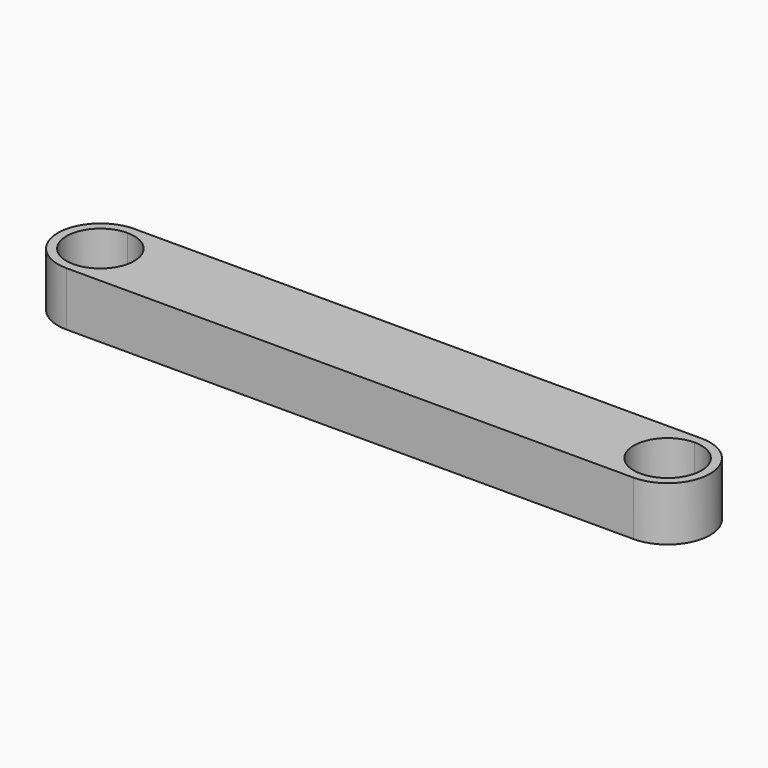
from build123d import *

# Parameters (mm, degrees)
F1_DEPTH = 5.08


with BuildPart() as f1:
    # F0 (on Top) → F1 (new body)
    with BuildSketch(Plane.XY):
        with BuildLine():
            Line((0, 3.990317), (-26.64101, 3.990317))
            Line((-26.64101, 3.990317), (-26.64101, 3.175))
            ThreePointArc((-26.64101, 3.175), (-24.395946, 2.245064), (-23.46601, 0))
            ThreePointArc((-23.46601, 0), (-24.395946, -2.245064), (-26.64101, -3.175))
            Line((-26.64101, -3.175), (-26.64101, -3.990317))
            Line((-26.64101, -3.990317), (0, -3.990317))
            Line((0, -3.990317), (26.64101, -3.990317))
            Line((26.64101, -3.990317), (26.64101, -3.175))
            ThreePointArc((26.64101, -3.175), (23.46601, 0), (26.64101, 3.175))
            Line((26.64101, 3.175), (26.64101, 3.990317))
            Line((26.64101, 3.990317), (0, 3.990317))
        make_face()
        with BuildLine():
            Line((-26.64101, 3.175), (-26.64101, 3.990317))
            ThreePointArc((-26.64101, 3.990317), (-30.631327, 0), (-26.64101, -3.990317))
            Line((-26.64101, -3.990317), (-26.64101, -3.175))
            ThreePointArc((-26.64101, -3.175), (-29.81601, 0), (-26.64101, 3.175))
        make_face()
        with BuildLine():
            ThreePointArc((26.64101, -3.990317), (30.631327, 0), (26.64101, 3.990317))
            Line((26.64101, 3.990317), (26.64101, 3.175))
            ThreePointArc((26.64101, 3.175), (28.886074, 2.245064), (29.81601, 0))
            ThreePointArc((29.81601, 0), (28.886074, -2.245064), (26.64101, -3.175))
            Line((26.64101, -3.175), (26.64101, -3.990317))
        make_face()
    extrude(amount=F1_DEPTH)


solid = f1.part
